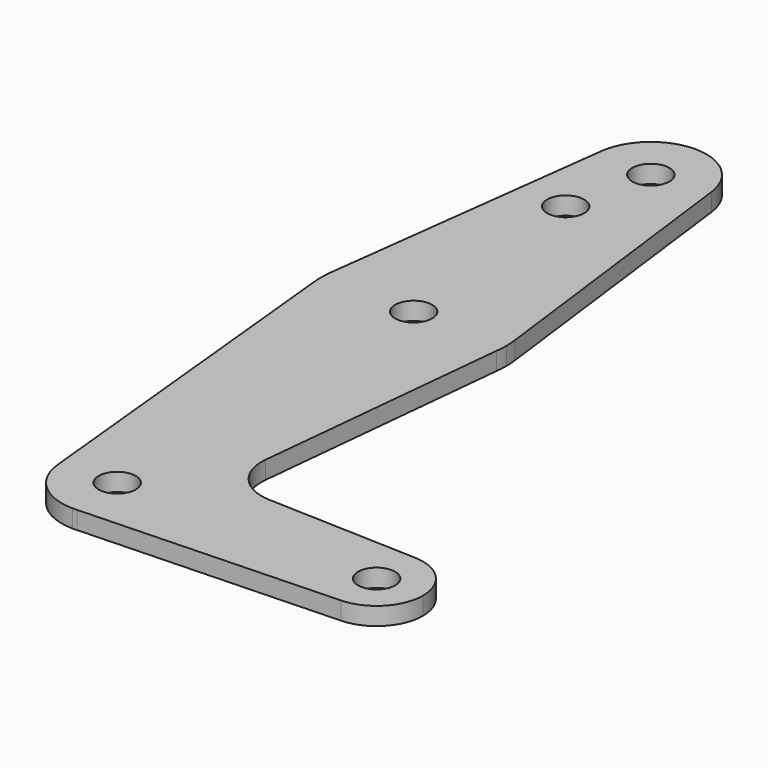
from build123d import *

# Parameters (mm, degrees)
F0_R     = 3.175
F1_DEPTH = 3.048


with BuildPart() as f1:
    # F0 (on Top) → F1 (new body)
    with BuildSketch(Plane.XY):
        with BuildLine():
            Line((-9.450293, 115.490625), (-15.750488, 65.484375))
            ThreePointArc((-15.750488, 65.484375), (0, 79.375), (15.750488, 65.484375))
            Line((15.750488, 65.484375), (9.450293, 115.490625))
            ThreePointArc((9.450293, 115.490625), (9.506305, 114.896483), (9.525, 114.3))
            ThreePointArc((9.525, 114.3), (-0.596483, 104.793695), (-9.450293, 115.490625))
        make_face()
        with Locations((-3.175, 100.0252)):
            Circle(F0_R, mode=Mode.SUBTRACT)
        with BuildLine():
            ThreePointArc((-9.477332, -0.951742), (-0.476467, 9.513075), (9.525, 0))
            ThreePointArc((9.525, 0), (6.970557, -6.491299), (0.677344, -9.500886))
            Line((0.677344, -9.500886), (44.732405, -7.932475))
            ThreePointArc((44.732405, -7.932475), (36.5125, 0.000539), (44.733482, 7.932436))
            Line((44.733482, 7.932436), (18.966106, 8.853287))
            ThreePointArc((18.966106, 8.853287), (13.259915, 11.571173), (11.339629, 17.592802))
            Line((11.339629, 17.592802), (15.750488, 61.515625))
            ThreePointArc((15.750488, 61.515625), (0, 47.625), (-15.750488, 61.515625))
            Line((-15.750488, 61.515625), (-9.477332, -0.951742))
        make_face()
        with BuildLine():
            ThreePointArc((0.677344, -9.500886), (6.970557, -6.491299), (9.525, 0))
            ThreePointArc((9.525, 0), (-0.476467, 9.513075), (-9.477332, -0.951742))
            ThreePointArc((-9.477332, -0.951742), (-6.389847, -7.063673), (0, -9.525))
            Line((0, -9.525), (0.677344, -9.500886))
        make_face()
        Circle(F0_R, mode=Mode.SUBTRACT)
        with BuildLine():
            ThreePointArc((44.733482, 7.932436), (36.5125, 0.000539), (44.732405, -7.932475))
            ThreePointArc((44.732405, -7.932475), (50.161633, -5.51191), (52.3875, 0))
            ThreePointArc((52.3875, 0), (50.162007, 5.511523), (44.733482, 7.932436))
        make_face()
        with Locations((44.45, 0)):
            Circle(F0_R, mode=Mode.SUBTRACT)
        with BuildLine():
            ThreePointArc((-15.750488, 65.484375), (-15.875, 63.5), (-15.750488, 61.515625))
            ThreePointArc((-15.750488, 61.515625), (0, 47.625), (15.750488, 61.515625))
            ThreePointArc((15.750488, 61.515625), (15.843841, 62.505861), (15.875, 63.5))
            ThreePointArc((15.875, 63.5), (15.843841, 64.494139), (15.750488, 65.484375))
            ThreePointArc((15.750488, 65.484375), (0, 79.375), (-15.750488, 65.484375))
        make_face()
        with Locations((0, 63.5)):
            Circle(F0_R, mode=Mode.SUBTRACT)
        with BuildLine():
            ThreePointArc((9.450293, 115.490625), (0, 123.825), (-9.450293, 115.490625))
            ThreePointArc((-9.450293, 115.490625), (-0.596483, 104.793695), (9.525, 114.3))
            ThreePointArc((9.525, 114.3), (9.506305, 114.896483), (9.450293, 115.490625))
        make_face()
        with Locations((0, 114.3)):
            Circle(F0_R, mode=Mode.SUBTRACT)
    extrude(amount=F1_DEPTH)


solid = f1.part
